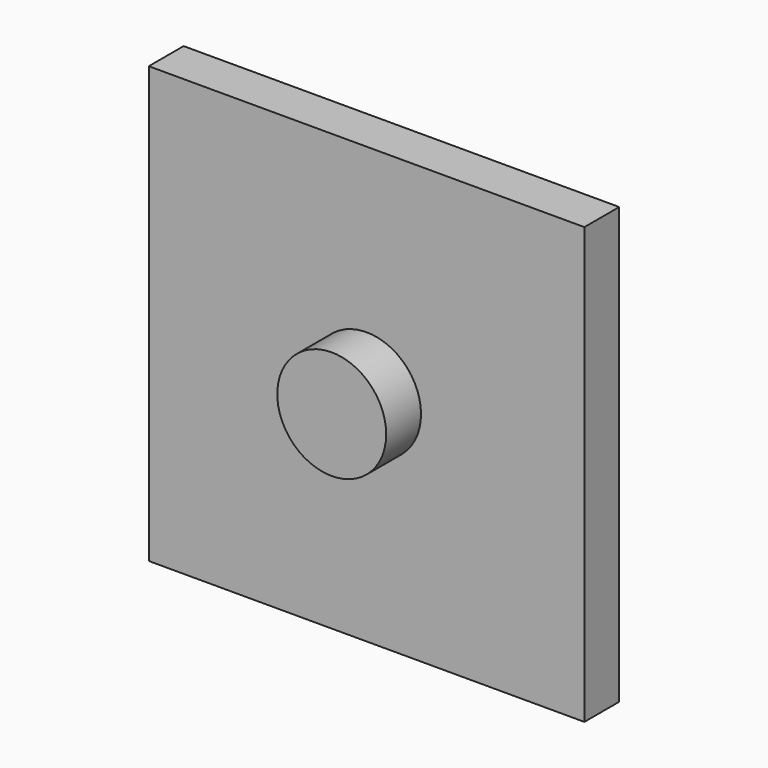
from build123d import *

# Parameters (mm, degrees)
F0_W     = 200
F0_H     = 200
F1_DEPTH = 20
F2_R     = 25
F3_DEPTH = 20


with BuildPart() as f1:
    # F0 (on Front) → F1 (new body)
    with BuildSketch(Plane.XZ):
        with Locations((100, 100)):
            Rectangle(F0_W, F0_H)
    extrude(amount=F1_DEPTH)


with BuildPart() as f3:
    # F2 (on face) → F3 (new body)
    with BuildSketch(Plane.XZ.offset(20)):
        with Locations((100, 100)):
            Circle(F2_R)
    extrude(amount=F3_DEPTH)


solid = Compound([f1.part, f3.part])
